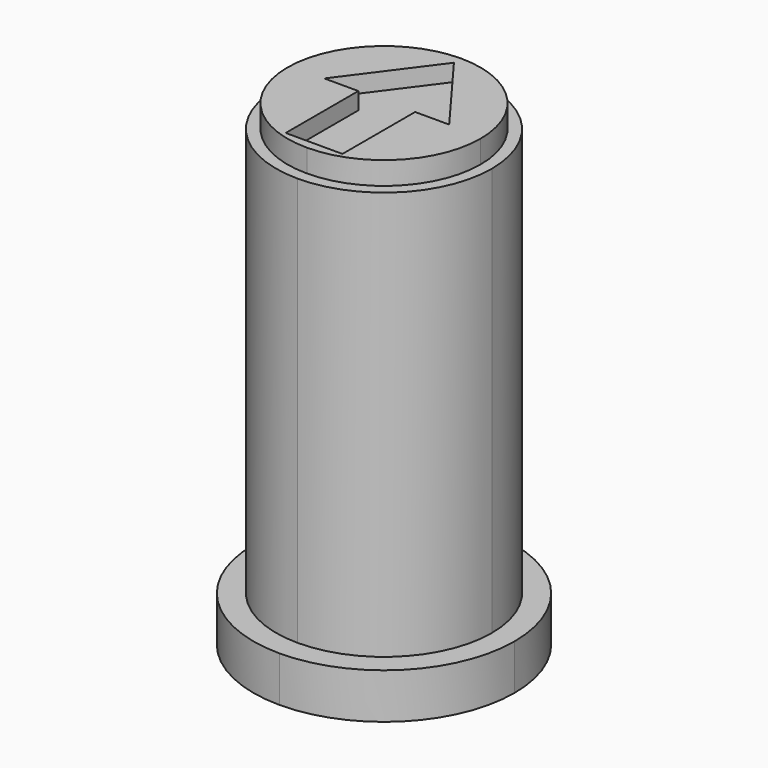
from build123d import *

# Parameters (mm, degrees)
F1_DEPTH = 21
F2_DEPTH = 20
F3_DEPTH = 2
F4_DEPTH = 20.25


with BuildPart() as f1:
    # F0 (on Top) → F1 (new body)
    with BuildSketch(Plane.XY):
        with BuildLine():
            ThreePointArc((0, 4.25), (-3.005204, 3.005204), (-4.25, 0))
            ThreePointArc((-4.25, 0), (-3.005204, -3.005204), (0, -4.25))
            ThreePointArc((0, -4.25), (3.005204, -3.005204), (4.25, 0))
            ThreePointArc((4.25, 0), (3.005204, 3.005204), (0, 4.25))
        make_face()
        Polygon((1.25, -3.85), (-1.25, -3.85), (-1.25, 0.15), (-2.75, 0.15), (0, 3.85), (2.75, 0.15), (1.25, 0.15), align=None, mode=Mode.SUBTRACT)
    extrude(amount=F1_DEPTH)

    # F0 (on Top) → F2 (join)
    with BuildSketch(Plane.XY):
        with BuildLine():
            ThreePointArc((4.75, 0), (3.358757, 3.358757), (0, 4.75))
            ThreePointArc((0, 4.75), (-3.358757, 3.358757), (-4.75, 0))
            ThreePointArc((-4.75, 0), (-3.358757, -3.358757), (0, -4.75))
            ThreePointArc((0, -4.75), (3.358757, -3.358757), (4.75, 0))
        make_face()
        with BuildLine():
            ThreePointArc((0, -4.25), (-3.005204, -3.005204), (-4.25, 0))
            ThreePointArc((-4.25, 0), (-3.005204, 3.005204), (0, 4.25))
            ThreePointArc((0, 4.25), (3.005204, 3.005204), (4.25, 0))
            ThreePointArc((4.25, 0), (3.005204, -3.005204), (0, -4.25))
        make_face(mode=Mode.SUBTRACT)
    extrude(amount=F2_DEPTH)

    # F0 (on Top) → F3 (join)
    with BuildSketch(Plane.XY):
        with BuildLine():
            ThreePointArc((-5.75, 0), (-4.065864, -4.065864), (0, -5.75))
            ThreePointArc((0, -5.75), (4.065864, -4.065864), (5.75, 0))
            ThreePointArc((5.75, 0), (4.065864, 4.065864), (0, 5.75))
            ThreePointArc((0, 5.75), (-4.065864, 4.065864), (-5.75, 0))
        make_face()
        with BuildLine():
            ThreePointArc((-4.75, 0), (-3.358757, 3.358757), (0, 4.75))
            ThreePointArc((0, 4.75), (3.358757, 3.358757), (4.75, 0))
            ThreePointArc((4.75, 0), (3.358757, -3.358757), (0, -4.75))
            ThreePointArc((0, -4.75), (-3.358757, -3.358757), (-4.75, 0))
        make_face(mode=Mode.SUBTRACT)
    extrude(amount=F3_DEPTH)

    # F0 (on Top) → F4 (join)
    with BuildSketch(Plane.XY):
        Polygon((-1.25, 0.15), (-1.25, -3.85), (1.25, -3.85), (1.25, 0.15), (2.75, 0.15), (0, 3.85), (-2.75, 0.15), align=None)
    extrude(amount=F4_DEPTH)


solid = f1.part
